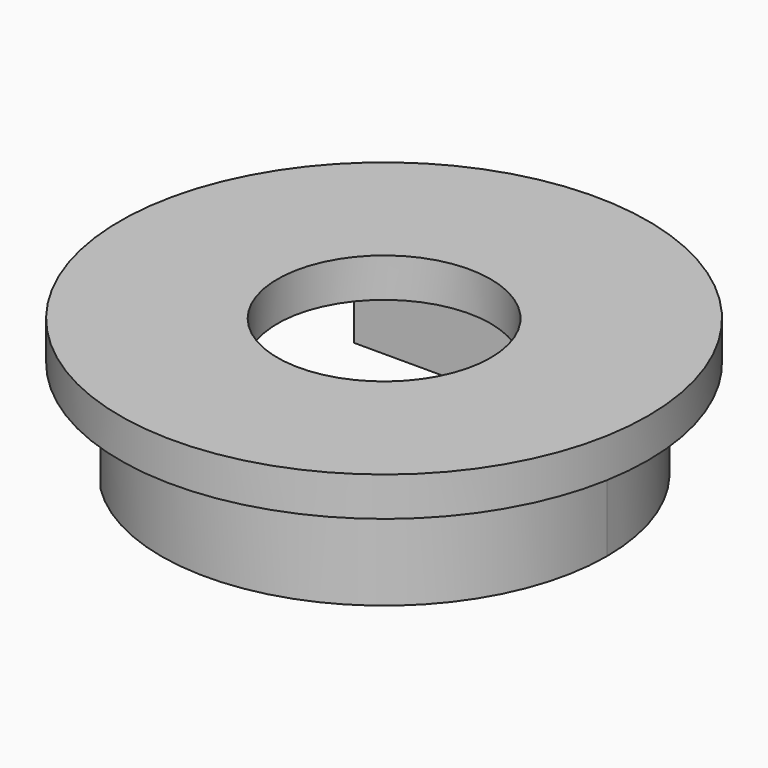
from build123d import *

# Parameters (mm, degrees)
F0_R     = 6.75
F0_R_2   = 2.725
F1_DEPTH = 1
F3_DEPTH = 2.5


with BuildPart() as f1:
    # F0 (on Top) → F1 (new body)
    with BuildSketch(Plane.XY):
        Circle(F0_R)
        Circle(F0_R_2, mode=Mode.SUBTRACT)
    extrude(amount=F1_DEPTH)

    # F2 (on face) → F3 (join)
    with BuildSketch(Plane(origin=(0, 0, 0), x_dir=(1, 0, 0), z_dir=(0, 0, -1))):
        with BuildLine():
            ThreePointArc((-4.0109225871, -4.05), (2.1940534694, -5.2608107145), (5.7, 0))
            ThreePointArc((5.7, 0), (2.1940534694, 5.2608107145), (-4.0109225871, 4.05))
            Line((-4.0109225871, 4.05), (0, 4.05))
            ThreePointArc((0, 4.05), (2.8637824638, 2.8637824638), (4.05, 0))
            ThreePointArc((4.05, 0), (2.8637824638, -2.8637824638), (0, -4.05))
            Line((0, -4.05), (-4.0109225871, -4.05))
        make_face()
    extrude(amount=F3_DEPTH)


solid = f1.part
